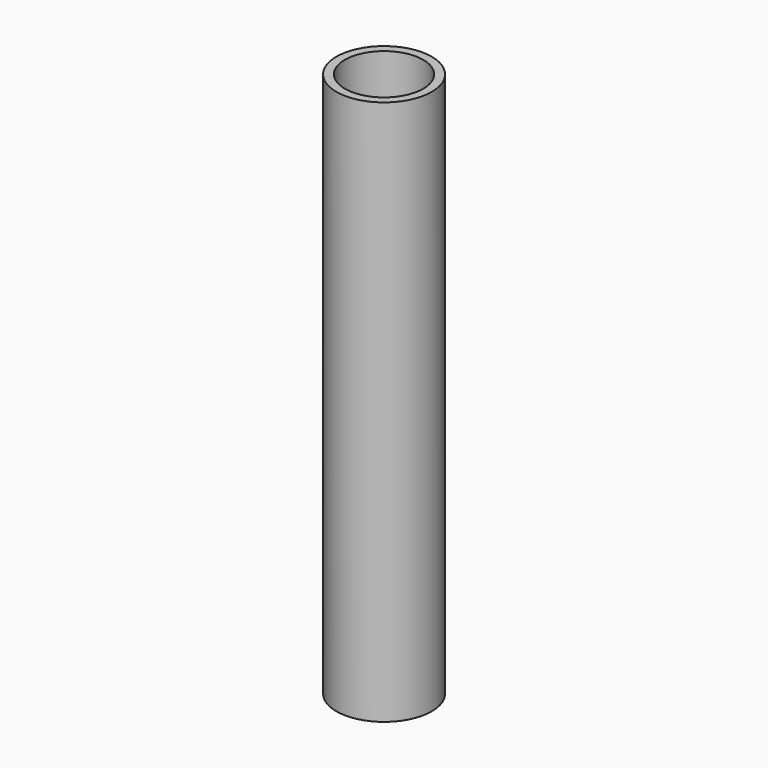
from build123d import *

# Parameters (mm, degrees)
F0_R        = 4.5
F0_R_2      = 3.7
F1_DEPTH    = 53.975
F1_FACE_R   = 4.5
F1_FACE_R_2 = 3.7
F2_DEPTH    = 2.5


with BuildPart() as f1:
    # F0 (on Top) → F1 (new body)
    with BuildSketch(Plane.XY):
        Circle(F0_R)
        Circle(F0_R_2, mode=Mode.SUBTRACT)
    extrude(amount=F1_DEPTH)

    # F1_face (on face) → F2 (cut)
    with BuildSketch(Plane.XY.offset(53.975)):
        Circle(F1_FACE_R)
        Circle(F1_FACE_R_2, mode=Mode.SUBTRACT)
    extrude(amount=-F2_DEPTH, mode=Mode.SUBTRACT)


solid = f1.part
